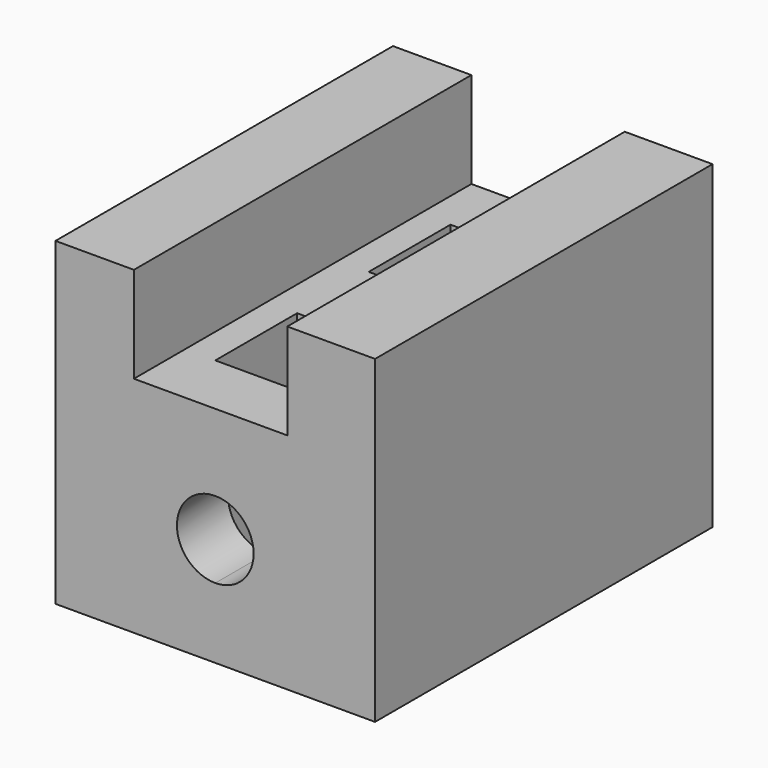
from build123d import *

# Parameters (mm, degrees)
F0_W     = 50
F0_H     = 66
F1_DEPTH = 50
F2_W     = 24
F2_H     = 15
F3_DEPTH = 100
F5_DEPTH = 100
F6_W     = 14
F6_H     = 16
F7_DEPTH = 100


with BuildPart() as f1:
    # F0 (on Top) → F1 (new body)
    with BuildSketch(Plane.XY):
        Rectangle(F0_W, F0_H)
    extrude(amount=-F1_DEPTH)

    # F2 (on face) → F3 (cut)
    with BuildSketch(Plane.XZ.offset(33)):
        with Locations((-0.730263, -7.5)):
            Rectangle(F2_W, F2_H)
    extrude(amount=-F3_DEPTH, mode=Mode.SUBTRACT)

    # F4 (on face) → F5 (cut)
    with BuildSketch(Plane.XZ.offset(33)):
        with BuildLine():
            ThreePointArc((6, -33), (-4.242641, -28.757359), (0, -39))
            ThreePointArc((0, -39), (4.242641, -37.242641), (6, -33))
        make_face()
    extrude(amount=-F5_DEPTH, mode=Mode.SUBTRACT)

    # F6 (on face) → F7 (cut)
    with BuildSketch(Plane.XY.offset(-15)):
        with Locations((-0.993422, 15)):
            Rectangle(F6_W, F6_H)
        with Locations((-0.993422, -15)):
            Rectangle(F6_W, F6_H)
    extrude(amount=-F7_DEPTH, mode=Mode.SUBTRACT)


solid = f1.part
